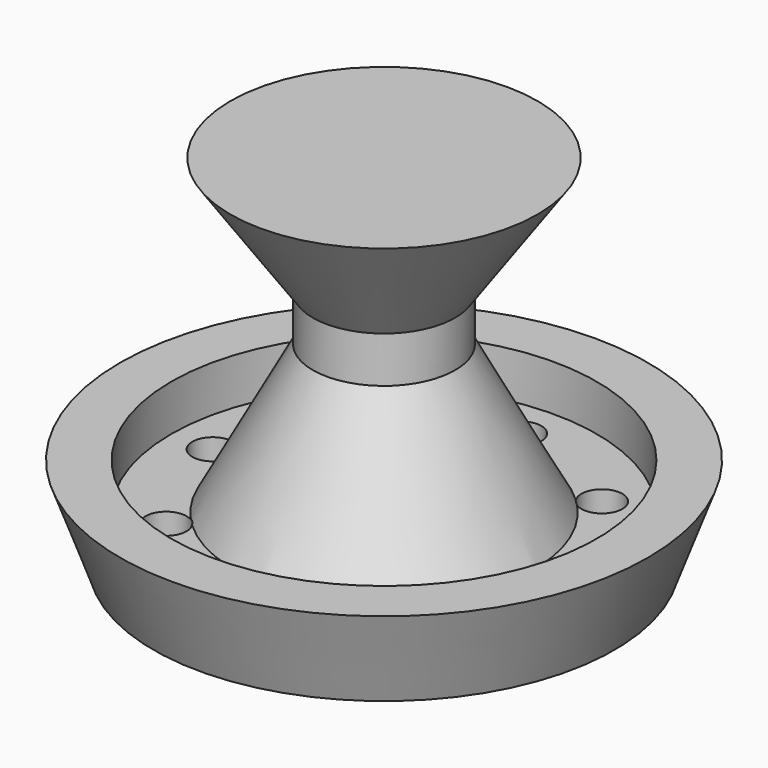
from build123d import *

# Parameters (mm, degrees)
F2_R     = 4
F3_DEPTH = 9.2181856301


with BuildPart() as f1:
    # F0 (on Front) → F1 (revolve)
    with BuildSketch(Plane.XZ):
        Polygon((0, -35.3728421032), (0, 34.6271578968), (-30, 34.6271578968), (-13.8952266212, 11.6271578968), (-13.8952266212, 2.6271578968), (-29.5514642168, -26.3728421032), (-41.5514642168, -26.3728421032), (-41.5514642168, -17.3728421032), (-51.5514642168, -17.3728421032), (-45, -35.3728421032), align=None)
    revolve(axis=Axis((0, 0, -0.3728421032), (0, 0, -1)))

    # F2 (on face) → F3 (cut, through all)
    with BuildSketch(Plane(origin=(0, 0, -35.3728421032), x_dir=(1, 0, 0), z_dir=(0, 0, -1))):
        with Locations((-33.4342122078, 0)):
            Circle(F2_R)
        with Locations((-23.6415581758, -23.6415581758)):
            Circle(F2_R)
        with Locations((0, -33.4342122078)):
            Circle(F2_R)
        with Locations((23.6415581758, -23.6415581758)):
            Circle(F2_R)
        with Locations((33.4342122078, 0)):
            Circle(F2_R)
        with Locations((23.6415581758, 23.6415581758)):
            Circle(F2_R)
        with Locations((0, 33.4342122078)):
            Circle(F2_R)
        with Locations((-23.6415581758, 23.6415581758)):
            Circle(F2_R)
    extrude(amount=-F3_DEPTH, mode=Mode.SUBTRACT)


solid = f1.part
